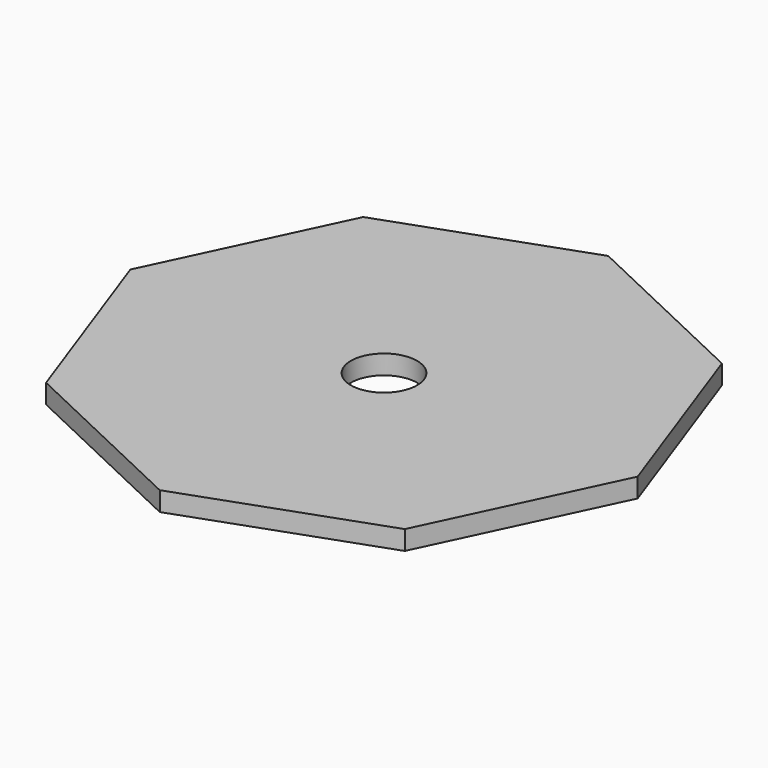
from build123d import *

# Parameters (mm, degrees)
F1_DEPTH = 6.35
F2_R     = 10.922
F3_DEPTH = 25.4


with BuildPart() as f1:
    # F0 (on Top) → F1 (new body)
    with BuildSketch(Plane.XY):
        Polygon((-58.525931, 64.586785), (-87.053837, 4.285671), (-64.586785, -58.525931), (-4.285671, -87.053837), (58.525931, -64.586785), (87.053837, -4.285671), (64.586785, 58.525931), (4.285671, 87.053837), align=None)
    extrude(amount=F1_DEPTH)

    # F2 (on face) → F3 (cut)
    with BuildSketch(Plane.XY.offset(6.35)):
        Circle(F2_R)
    extrude(amount=-F3_DEPTH, mode=Mode.SUBTRACT)


solid = f1.part
